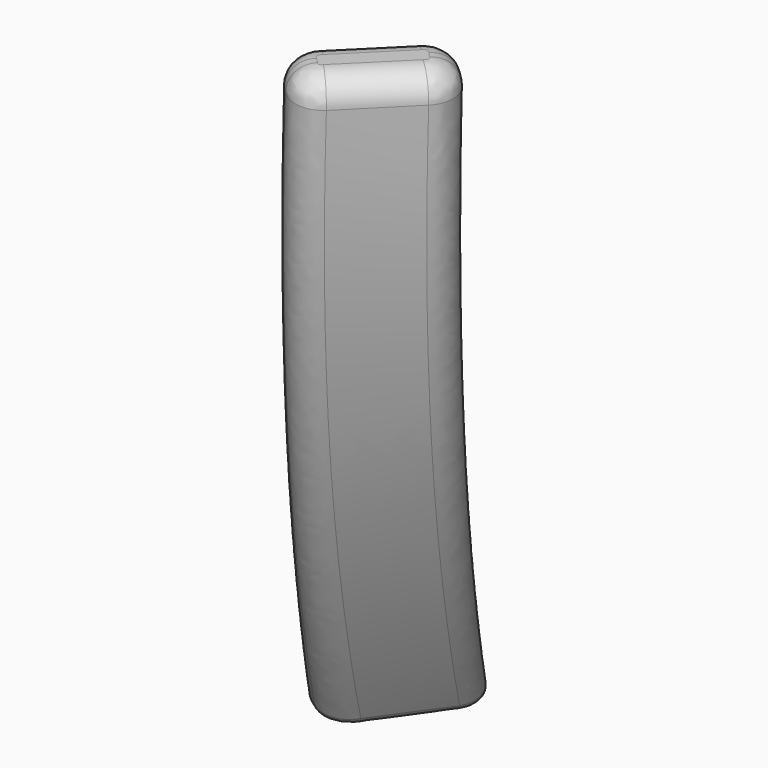
from build123d import *

# Parameters (mm, degrees)
FILLET007_R = 2
FILLET008_R = 1


with BuildPart() as part:
    # Face008 → Loft010 section 0
    with BuildSketch(Plane(origin=(21.356726, -19.596267, 81.5), x_dir=(0, 1, 0), z_dir=(0, 0, 1))):
        with BuildLine():
            Line((-4.150954, 0.364537), (0.364537, -4.150954))
            ThreePointArc((0.364537, -4.150954), (2.000644, -4.828652), (3.636751, -4.150954))
            Line((3.636751, -4.150954), (4.150954, -3.636751))
            ThreePointArc((4.150954, -3.636751), (4.828652, -2.000644), (4.150954, -0.364537))
            Line((4.150954, -0.364537), (-0.364537, 4.150954))
            ThreePointArc((-0.364537, 4.150954), (-2.000644, 4.828652), (-3.636751, 4.150954))
            Line((-3.636751, 4.150954), (-4.150954, 3.636751))
            ThreePointArc((-4.150954, 3.636751), (-4.828652, 2.000644), (-4.150954, 0.364537))
        make_face()
    # Face009 → Loft010 section 1
    with BuildSketch(Plane(origin=(19.056593, -16.815547, 59), x_dir=(0, 1, 0), z_dir=(0, 0, 1))):
        with BuildLine():
            Line((-4.150954, 0.364537), (0.364537, -4.150954))
            ThreePointArc((0.364537, -4.150954), (2.000644, -4.828652), (3.636751, -4.150954))
            Line((3.636751, -4.150954), (4.150954, -3.636751))
            ThreePointArc((4.150954, -3.636751), (4.828652, -2.000644), (4.150954, -0.364537))
            Line((4.150954, -0.364537), (-0.364537, 4.150954))
            ThreePointArc((-0.364537, 4.150954), (-2.000644, 4.828652), (-3.636751, 4.150954))
            Line((-3.636751, 4.150954), (-4.150954, 3.636751))
            ThreePointArc((-4.150954, 3.636751), (-4.828652, 2.000644), (-4.150954, 0.364537))
        make_face()
    # Face010 → Loft010 section 2
    with BuildSketch(Plane(origin=(12.164699, -5.58511, 28), x_dir=(0, 1, 0), z_dir=(0, 0, 1))):
        with BuildLine():
            Line((-4.151193, -0.361807), (1.079805, -4.024591))
            ThreePointArc((1.079805, -4.024591), (2.808736, -4.407886), (4.302306, -3.456377))
            Line((4.302306, -3.456377), (4.719407, -2.860695))
            ThreePointArc((4.719407, -2.860695), (5.102702, -1.131763), (4.151193, 0.361807))
            Line((4.151193, 0.361807), (-1.079805, 4.024591))
            ThreePointArc((-1.079805, 4.024591), (-2.808736, 4.407886), (-4.302306, 3.456377))
            Line((-4.302306, 3.456377), (-4.719407, 2.860695))
            ThreePointArc((-4.719407, 2.860695), (-5.102702, 1.131763), (-4.151193, -0.361807))
        make_face()
    loft()

    # Fillet007
    fillet007_edges = [part.edges().sort_by_distance(p)[0] for p in [
        (23.249934, -21.489475, 81.5),
    ]]
    fillet(fillet007_edges, radius=FILLET007_R)

    # Fillet008
    fillet008_edges = [part.edges().sort_by_distance(p)[0] for p in [
        (14.357898, -7.120804, 28),
    ]]
    fillet(fillet008_edges, radius=FILLET008_R)


solid = part.part
